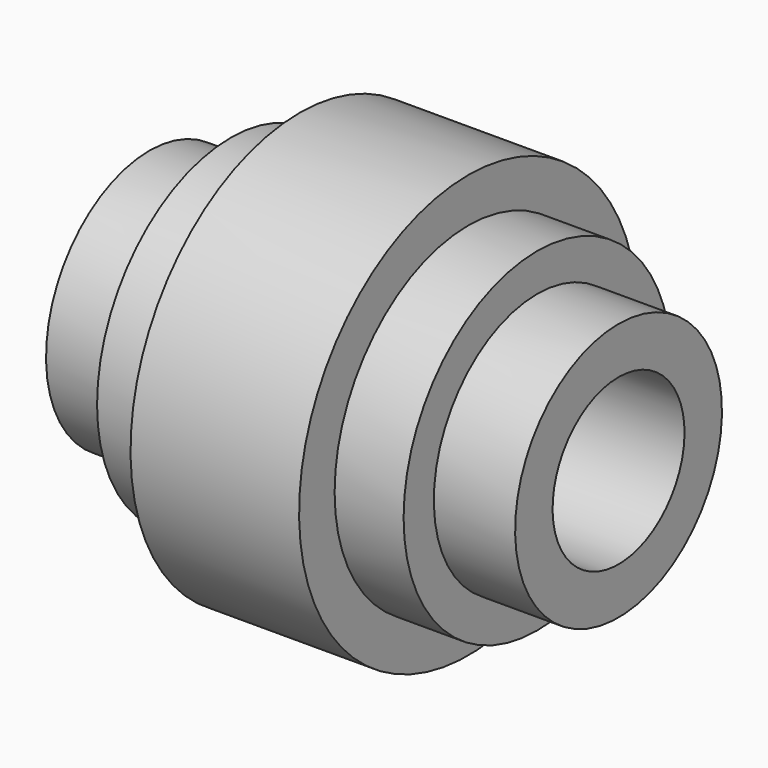
from build123d import *


with BuildPart() as f1:
    # F0 (on Front) → F1 (revolve)
    with BuildSketch(Plane.XZ):
        Polygon((24.319377, 61.028399), (0, 61.028399), (0, 23.788566), (67.676023, 23.788566), (67.676023, 37.304949), (44.225264, 37.304949), (44.225264, 48.212282), (24.319377, 48.212282), align=None)
        Polygon((0, 23.788566), (0, 61.028399), (-24.319377, 61.028399), (-24.319377, 48.212282), (-44.225264, 48.212282), (-44.225264, 37.304949), (-67.676023, 37.304949), (-67.676023, 23.788566), align=None)
    revolve(axis=Axis((2.036428, 0, 0), (-1, 0, 0)))


solid = f1.part
